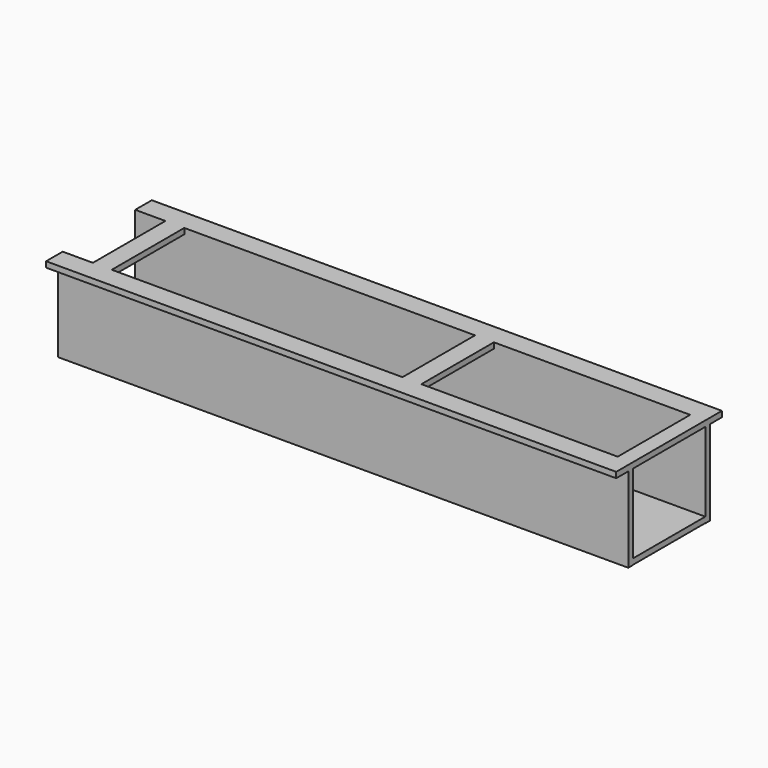
from build123d import *

# Parameters (mm, degrees)
F0_W      = 1663.7
F0_H      = 304.8
F1_DEPTH  = 19.05
F2_W      = 50.8
F2_H      = 19.05
F3_DEPTH  = 304.8
F4_W      = 1308.1
F4_H      = 19.05
F5_DEPTH  = 304.8
F7_DEPTH  = 19.05
F8_DEPTH  = 19.05
F9_DEPTH  = 19.05
F11_DEPTH = 19.05
F12_W     = 276.225
F12_H     = 19.05
F13_DEPTH = 304.8
F14_DEPTH = 50.8
F15_DEPTH = 304.8
F16_DEPTH = 304.8
F17_W     = 304.8
F17_H     = 19.05
F18_DEPTH = 152.4


with BuildPart() as f1:
    # F0 (on Front) → F1 (new body)
    with BuildSketch(Plane.XZ):
        Rectangle(F0_W, F0_H)
    extrude(amount=F1_DEPTH)

    # F2 (on face) → F3 (join)
    with BuildSketch(Plane.XZ.offset(19.05)):
        with Locations((806.45, -142.113)):
            Rectangle(F2_W, F2_H)
    extrude(amount=F3_DEPTH)

    # F4 (on face) → F5 (join)
    with BuildSketch(Plane.XZ.offset(19.05)):
        with Locations((-177.8, -142.113)):
            Rectangle(F4_W, F4_H)
    extrude(amount=F5_DEPTH)

    # F6 (on face) → F7 (join)
    with BuildSketch(Plane.XZ.offset(323.85)):
        Polygon((-831.85, 152.4), (-831.85, -151.638), (-831.85, -152.4), (831.85, -152.4), (831.85, 152.4), align=None)
    extrude(amount=F7_DEPTH)

    # F8 (cut): a face of the model
    f8_faces = [f1.faces().sort_by_distance(p)[0] for p in [
        (0, -333.375, 152.4),
    ]]
    extrude(f8_faces, amount=-F8_DEPTH, mode=Mode.SUBTRACT)

    # F9 (cut): a face of the model
    f9_faces = [f1.faces().sort_by_distance(p)[0] for p in [
        (0, -9.525, 152.4),
    ]]
    extrude(f9_faces, amount=-F9_DEPTH, mode=Mode.SUBTRACT)

    # F10 (on face) → F11 (join)
    with BuildSketch(Plane.XY.offset(133.35)):
        Polygon((831.85, -393.7), (831.85, -342.9), (831.85, -323.85), (831.85, -19.05), (781.05, -19.05), (781.05, -323.85), (425.45, -323.85), (425.45, -19.05), (361.95, -19.05), (361.95, -323.85), (-615.95, -323.85), (-679.45, -323.85), (-831.85, -323.85), (-831.85, -393.7), align=None)
        Polygon((781.05, -19.05), (831.85, -19.05), (831.85, 50.8), (-831.85, 50.8), (-831.85, -19.05), (-679.45, -19.05), (-679.45, -323.85), (-615.95, -323.85), (-615.95, -19.05), (361.95, -19.05), (425.45, -19.05), align=None)
    extrude(amount=F11_DEPTH)

    # F12 (on face) → F13 (join)
    with BuildSketch(Plane(origin=(0, -323.85, 0), x_dir=(-1, 0, 0), z_dir=(0, 1, 0))):
        with Locations((-617.5375, -142.113)):
            Rectangle(F12_W, F12_H)
    extrude(amount=F13_DEPTH)

    # F14 (cut): a face of the model
    f14_faces = [f1.faces().sort_by_distance(p)[0] for p in [
        (-831.85, -329.2396501742, 9.906),
    ]]
    extrude(f14_faces, amount=-F14_DEPTH, mode=Mode.SUBTRACT)

    # F15 (add): a face of the model
    f15_faces = [f1.faces().sort_by_distance(p)[0] for p in [
        (831.85, -329.2396501742, -152.019),
    ]]
    extrude(f15_faces, amount=F15_DEPTH)

    # F16 (cut): a face of the model
    f16_faces = [f1.faces().sort_by_distance(p)[0] for p in [
        (781.05, -171.45, 142.875),
    ]]
    extrude(f16_faces, amount=-F16_DEPTH, mode=Mode.SUBTRACT)

    # F17 (on face) → F18 (cut)
    with BuildSketch(Plane(origin=(-781.05, 0, 0), x_dir=(0, -1, 0), z_dir=(-1, 0, 0))):
        with Locations((171.45, -142.113)):
            Rectangle(F17_W, F17_H)
    extrude(amount=-F18_DEPTH, mode=Mode.SUBTRACT)


solid = f1.part
